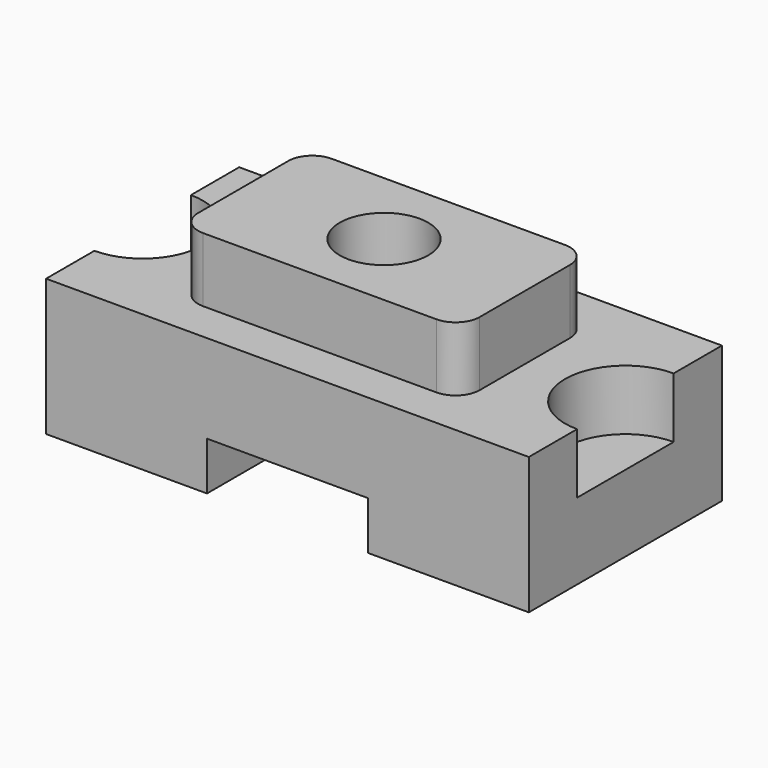
from build123d import *

# Parameters (mm, degrees)
F0_W     = 1200
F0_H     = 600
F1_DEPTH = 340
F3_DEPTH = 150
F4_W     = 400
F4_H     = 240
F5_DEPTH = 600.001
F6_W     = 700
F6_H     = 400
F7_DEPTH = 160
F8_R     = 110
F9_DEPTH = 500.001
F10_R    = 60


with BuildPart() as f1:
    # F0 (on Top) → F1 (new body)
    with BuildSketch(Plane.XY):
        Rectangle(F0_W, F0_H)
    extrude(amount=F1_DEPTH)

    # F2 (on face) → F3 (cut)
    with BuildSketch(Plane.XY.offset(340)):
        with BuildLine():
            ThreePointArc((-600, -150), (-493.933982822, -106.066017178), (-450, 0))
            ThreePointArc((-450, 0), (-493.933982822, 106.066017178), (-600, 150))
            Line((-600, 150), (-600, -150))
        make_face()
        with BuildLine():
            Line((600, -150), (600, 150))
            ThreePointArc((600, 150), (450, 0), (600, -150))
        make_face()
    extrude(amount=-F3_DEPTH, mode=Mode.SUBTRACT)

    # F4 (on face) → F5 (cut, through all)
    with BuildSketch(Plane.XZ.offset(300)):
        Rectangle(F4_W, F4_H)
    extrude(amount=-F5_DEPTH, mode=Mode.SUBTRACT)

    # F6 (on face) → F7 (join)
    with BuildSketch(Plane.XY.offset(340)):
        Rectangle(F6_W, F6_H)
    extrude(amount=F7_DEPTH)

    # F8 (on face) → F9 (cut, through all)
    with BuildSketch(Plane.XY.offset(500)):
        Circle(F8_R)
    extrude(amount=-F9_DEPTH, mode=Mode.SUBTRACT)

    # F10
    f10_edges = [f1.edges().sort_by_distance(p)[0] for p in [
        (-350, -200, 420),
        (-350, 200, 420),
        (350, 200, 420),
        (350, -200, 420),
    ]]
    fillet(f10_edges, radius=F10_R)


solid = f1.part
